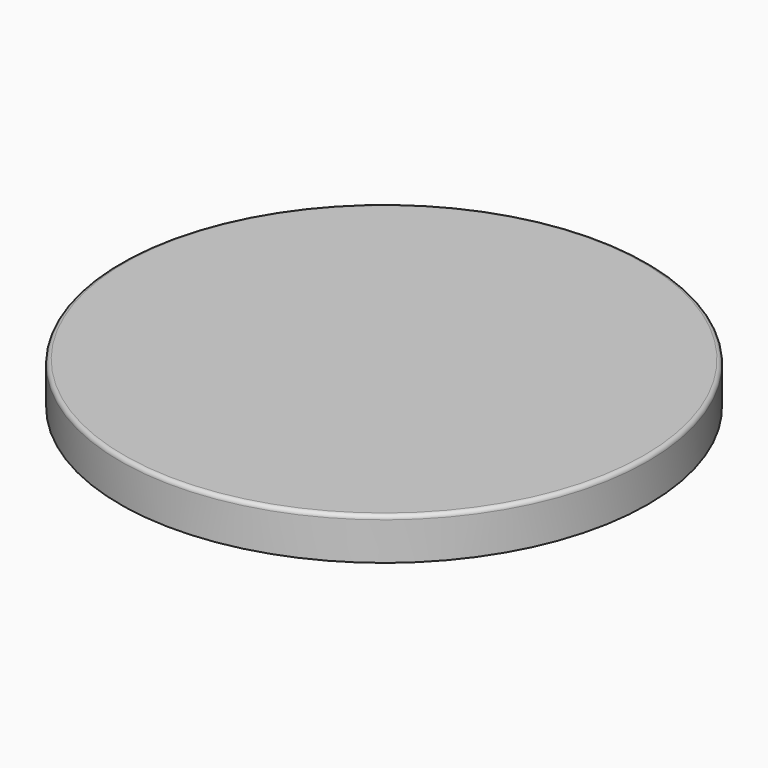
from build123d import *


with BuildPart() as f1:
    # F0 (on Front) → F1 (revolve)
    with BuildSketch(Plane.XZ):
        with BuildLine():
            Line((62.049731, 0), (0, 0))
            Line((0, 0), (0, -0.414))
            Line((0, -0.414), (62.049725, -0.414))
            ThreePointArc((62.049725, -0.414), (62.42866, -0.57096), (62.58562, -0.949895))
            Line((62.58562, -0.949895), (62.58562, -10))
            Line((62.58562, -10), (62.99962, -10))
            Line((62.99962, -10), (62.99962, -0.949889))
            ThreePointArc((62.99962, -0.949889), (62.721404, -0.278216), (62.049731, 0))
        make_face()
    revolve(axis=Axis((0, 0, -0.207), (0, 0, -1)))


solid = f1.part
